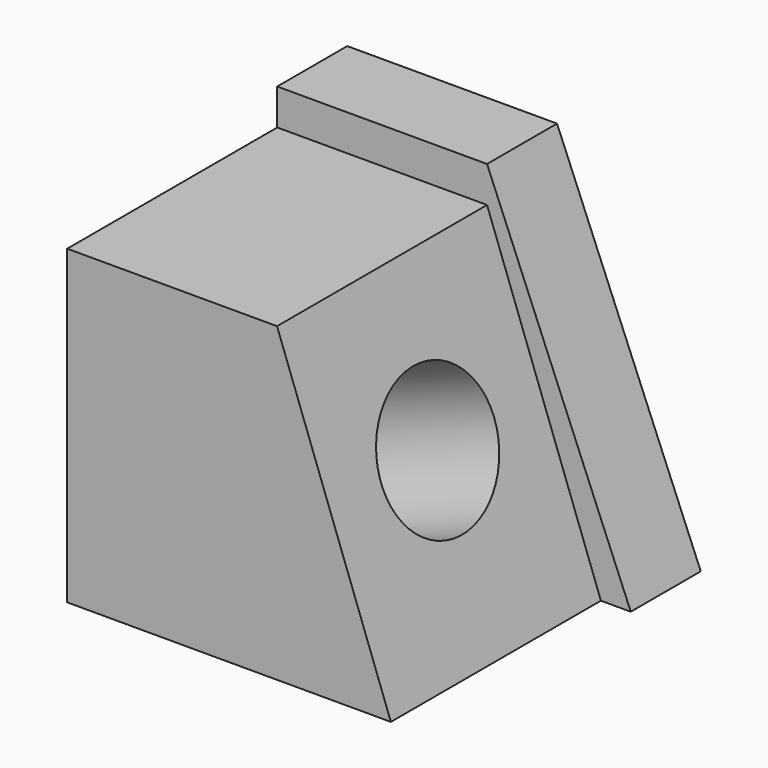
from build123d import *

# Parameters (mm, degrees)
F1_DEPTH = 76.2
F2_DEPTH = 25.4
F3_R     = 20.5394325034
F4_DEPTH = 76.2


with BuildPart() as f1:
    # F0 (on Front) → F1 (new body)
    with BuildSketch(Plane.XZ):
        Polygon((-4.6956427395, 55.8883473277), (-65.5990689993, 55.8883473277), (-65.5990689993, -34.4946607947), (28.3477045596, -34.4946607947), align=None)
    extrude(amount=F1_DEPTH)

    # F0 (on Front) → F2 (join)
    with BuildSketch(Plane.XZ):
        Polygon((-4.6956427395, 55.8883473277), (-65.5990689993, 55.8883473277), (-65.5990689993, -34.4946607947), (28.3477045596, -34.4946607947), align=None)
        Polygon((-65.5990689993, 66.358409822), (-65.5990689993, 55.8883473277), (-4.6956427395, 55.8883473277), (28.3477045596, -34.4946607947), (37.022896111, -34.4946607947), (-4.6956427395, 66.358409822), align=None)
    extrude(amount=-F2_DEPTH)

    # F3 (on face) → F4 (cut)
    with BuildSketch(Plane(origin=(13.8813630625, 0, 5.0749218264), x_dir=(0, 1, 0), z_dir=(0.9392019794, 0, 0.3433651727))):
        with Locations((-37.3390875757, 8.860943839)):
            Circle(F3_R)
    extrude(amount=-F4_DEPTH, mode=Mode.SUBTRACT)


solid = f1.part
